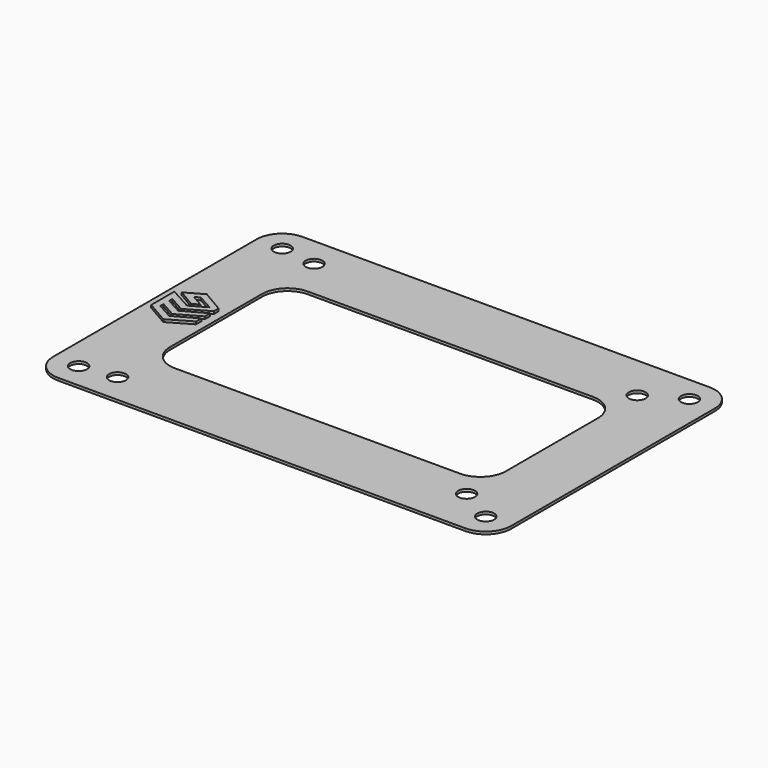
from build123d import *

# Parameters (mm, degrees)
F0_R     = 1.65
F1_DEPTH = 0.5
F2_DEPTH = 1


with BuildPart() as f1:
    # F0 (on Top) → F1 (new body)
    with BuildSketch(Plane.XY):
        with Locations((7.655694, 52.305)):
            Circle(F0_R)
        with BuildLine():
            ThreePointArc((89.305694, 52.305), (87.655694, 53.955), (86.005694, 52.305))
            ThreePointArc((86.005694, 52.305), (87.655694, 50.655), (89.305694, 52.305))
        make_face()
        with BuildLine():
            ThreePointArc((92.655694, 52.305), (91.191228, 55.840534), (87.655694, 57.305))
            Line((87.655694, 57.305), (7.655694, 57.305))
            ThreePointArc((7.655694, 57.305), (4.12016, 55.840534), (2.655694, 52.305))
            Line((2.655694, 52.305), (2.655694, 2.305))
            ThreePointArc((2.655694, 2.305), (4.12016, -1.230534), (7.655694, -2.695))
            Line((7.655694, -2.695), (87.655694, -2.695))
            ThreePointArc((87.655694, -2.695), (91.191228, -1.230534), (92.655694, 2.305))
            Line((92.655694, 2.305), (92.655694, 52.305))
        make_face()
        with Locations((7.655694, 2.305)):
            Circle(F0_R, mode=Mode.SUBTRACT)
        with Locations((14.605, 3.175)):
            Circle(F0_R, mode=Mode.SUBTRACT)
        Polygon((8.679579, 23.260895), (13.055694, 25.697895), (13.055694, 24.38768), (8.653374, 21.845862), (4.251055, 24.38768), (4.251055, 30.07397), (8.679579, 27.636997), (11.745485, 29.36645), (8.653374, 31.069739), (7.710021, 30.571854), (10.068401, 29.183032), (8.810601, 28.50173), (5.299226, 30.571854), (8.679579, 32.484765), (13.055694, 29.942947), (13.055694, 28.763775), (8.653374, 26.221977), (5.56127, 27.95145), (5.56127, 27.165331), (8.679579, 25.462055), (13.055694, 27.872837), (13.055694, 26.562635), (8.653374, 24.047022), (5.56127, 25.802713), (5.56127, 24.990375), align=None, mode=Mode.SUBTRACT)
        with Locations((87.655694, 2.305)):
            Circle(F0_R, mode=Mode.SUBTRACT)
        with Locations((80.645, 6.35)):
            Circle(F0_R, mode=Mode.SUBTRACT)
        with BuildLine():
            Line((19.646068, 43.635763), (75.66532, 43.635763))
            ThreePointArc((75.66532, 43.635763), (79.200854, 42.171297), (80.66532, 38.635763))
            Line((80.66532, 38.635763), (80.66532, 15.974237))
            ThreePointArc((80.66532, 15.974237), (79.200854, 12.438703), (75.66532, 10.974237))
            Line((75.66532, 10.974237), (19.646068, 10.974237))
            ThreePointArc((19.646068, 10.974237), (16.110534, 12.438703), (14.646068, 15.974237))
            Line((14.646068, 15.974237), (14.646068, 38.635763))
            ThreePointArc((14.646068, 38.635763), (16.110534, 42.171297), (19.646068, 43.635763))
        make_face(mode=Mode.SUBTRACT)
        with Locations((7.655694, 52.305)):
            Circle(F0_R, mode=Mode.SUBTRACT)
        with BuildLine():
            ThreePointArc((16.006999, 52.305), (16.191789, 51.887329), (16.255, 51.435))
            ThreePointArc((16.255, 51.435), (14.152671, 49.848211), (13.203001, 52.305))
            ThreePointArc((13.203001, 52.305), (14.605, 53.085), (16.006999, 52.305))
        make_face(mode=Mode.SUBTRACT)
        with Locations((80.645, 48.26)):
            Circle(F0_R, mode=Mode.SUBTRACT)
        with BuildLine():
            ThreePointArc((89.305694, 52.305), (87.655694, 50.655), (86.005694, 52.305))
            ThreePointArc((86.005694, 52.305), (87.655694, 53.955), (89.305694, 52.305))
        make_face(mode=Mode.SUBTRACT)
        Polygon((13.055694, 24.38768), (13.055694, 25.697895), (8.679579, 23.260895), (5.56127, 24.990375), (5.56127, 25.802713), (8.653374, 24.047022), (13.055694, 26.562635), (13.055694, 27.872837), (8.679579, 25.462055), (5.56127, 27.165331), (5.56127, 27.95145), (8.653374, 26.221977), (13.055694, 28.763775), (13.055694, 29.942947), (8.679579, 32.484765), (5.299226, 30.571854), (8.810601, 28.50173), (10.068401, 29.183032), (7.710021, 30.571854), (8.653374, 31.069739), (11.745485, 29.36645), (8.679579, 27.636997), (4.251055, 30.07397), (4.251055, 24.38768), (8.653374, 21.845862), align=None)
    extrude(amount=F1_DEPTH)

    # F0 (on Top) → F2 (join)
    with BuildSketch(Plane.XY):
        Polygon((13.055694, 24.38768), (13.055694, 25.697895), (8.679579, 23.260895), (5.56127, 24.990375), (5.56127, 25.802713), (8.653374, 24.047022), (13.055694, 26.562635), (13.055694, 27.872837), (8.679579, 25.462055), (5.56127, 27.165331), (5.56127, 27.95145), (8.653374, 26.221977), (13.055694, 28.763775), (13.055694, 29.942947), (8.679579, 32.484765), (5.299226, 30.571854), (8.810601, 28.50173), (10.068401, 29.183032), (7.710021, 30.571854), (8.653374, 31.069739), (11.745485, 29.36645), (8.679579, 27.636997), (4.251055, 30.07397), (4.251055, 24.38768), (8.653374, 21.845862), align=None)
    extrude(amount=F2_DEPTH)


solid = f1.part
